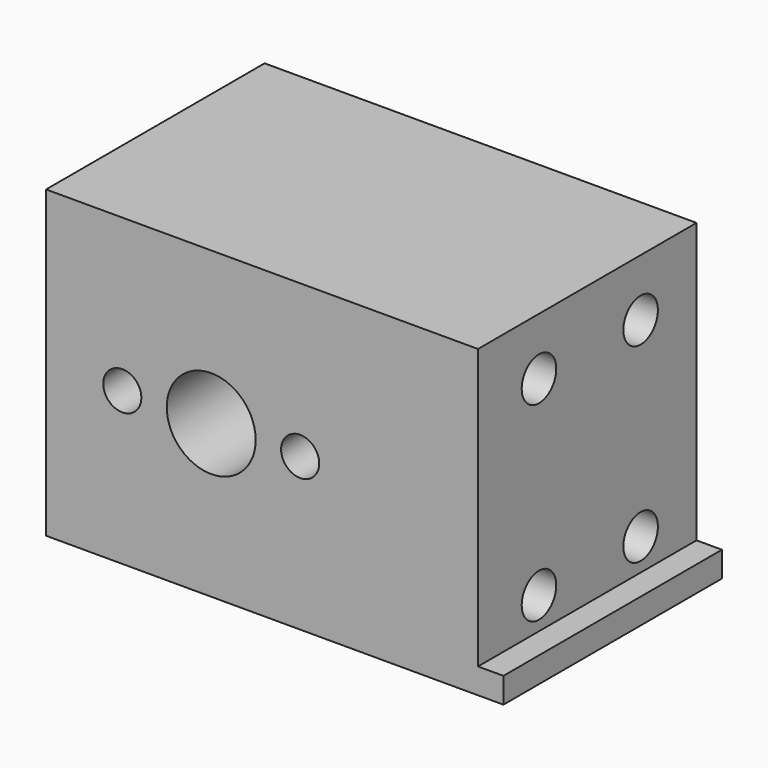
from build123d import *

# Parameters (mm, degrees)
F0_W      = 36
F0_H      = 24
F1_DEPTH  = 21.5
F2_R      = 1.7
F3_DEPTH  = 36.001
F5_DEPTH  = 4
F6_R      = 3.25
F7_DEPTH  = 6.5
F8_R      = 1.5
F9_DEPTH  = 6
F10_W     = 2
F10_H     = 22
F10_R     = 1.75
F11_DEPTH = 26.001
F12_R     = 3.5
F13_DEPTH = 15
F14_R     = 1.5
F15_DEPTH = 6
F16_R     = 1.5
F17_DEPTH = 6


with BuildPart() as f1:
    # F0 (on Front) → F1 (new body)
    with BuildSketch(Plane.XZ):
        Rectangle(F0_W, F0_H)
    extrude(amount=F1_DEPTH)

    # F2 (on face) → F3 (cut, through all)
    with BuildSketch(Plane(origin=(-18, 0, 0), x_dir=(0, -1, 0), z_dir=(-1, 0, 0))):
        with Locations((15.5, 7.5)):
            Circle(F2_R)
        with Locations((5.5, -7.5)):
            Circle(F2_R)
        with Locations((5.5, 7.5)):
            Circle(F2_R)
        with Locations((15.5, -7.5)):
            Circle(F2_R)
    extrude(amount=-F3_DEPTH, mode=Mode.SUBTRACT)

    # F4 (on face) → F5 (join)
    with BuildSketch(Plane(origin=(-18, 0, 0), x_dir=(0, -1, 0), z_dir=(-1, 0, 0))):
        Polygon((0, -4), (0, 4), (-4.5, 4), (-4.5, 1.127949), (-3.5, 0.86), (-2.3, 0.86), (-2.3, -0.86), (-3.5, -0.86), (-4.5, -1.127949), (-4.5, -4), align=None)
    extrude(amount=-F5_DEPTH)

    # F6 (on face) → F7 (cut)
    with BuildSketch(Plane(origin=(-18, 0, 0), x_dir=(0, -1, 0), z_dir=(-1, 0, 0))):
        with Locations((15.5, 7.5)):
            Circle(F6_R)
        with Locations((5.5, 7.5)):
            Circle(F6_R)
        with Locations((5.5, -7.5)):
            Circle(F6_R)
        with Locations((15.5, -7.5)):
            Circle(F6_R)
    extrude(amount=-F7_DEPTH, mode=Mode.SUBTRACT)

    # F8 (on face) → F9 (cut)
    with BuildSketch(Plane.XZ.offset(21.5)):
        with Locations((-12, 0)):
            Circle(F8_R)
        with Locations((2, 0)):
            Circle(F8_R)
    extrude(amount=-F9_DEPTH, mode=Mode.SUBTRACT)

    # F10 (on face) → F11 (cut, through all)
    with BuildSketch(Plane.XZ.offset(21.5)):
        with Locations((17, 1)):
            Rectangle(F10_W, F10_H)
        with Locations((-5, 0)):
            Circle(F10_R)
    extrude(amount=-F11_DEPTH, mode=Mode.SUBTRACT)

    # F12 (on face) → F13 (cut)
    with BuildSketch(Plane.XZ.offset(21.5)):
        with Locations((-5, 0)):
            Circle(F12_R)
    extrude(amount=-F13_DEPTH, mode=Mode.SUBTRACT)

    # F14 (on face) → F15 (cut)
    with BuildSketch(Plane(origin=(0, 0, -12), x_dir=(1, 0, 0), z_dir=(0, 0, -1))):
        with Locations((12, 9.5)):
            Circle(F14_R)
    extrude(amount=-F15_DEPTH, mode=Mode.SUBTRACT)

    # F16 (on face) → F17 (cut)
    with BuildSketch(Plane(origin=(0, 0, 0), x_dir=(-1, 0, 0), z_dir=(0, 1, 0))):
        with Locations((-12, 0)):
            Circle(F16_R)
    extrude(amount=-F17_DEPTH, mode=Mode.SUBTRACT)


solid = f1.part
